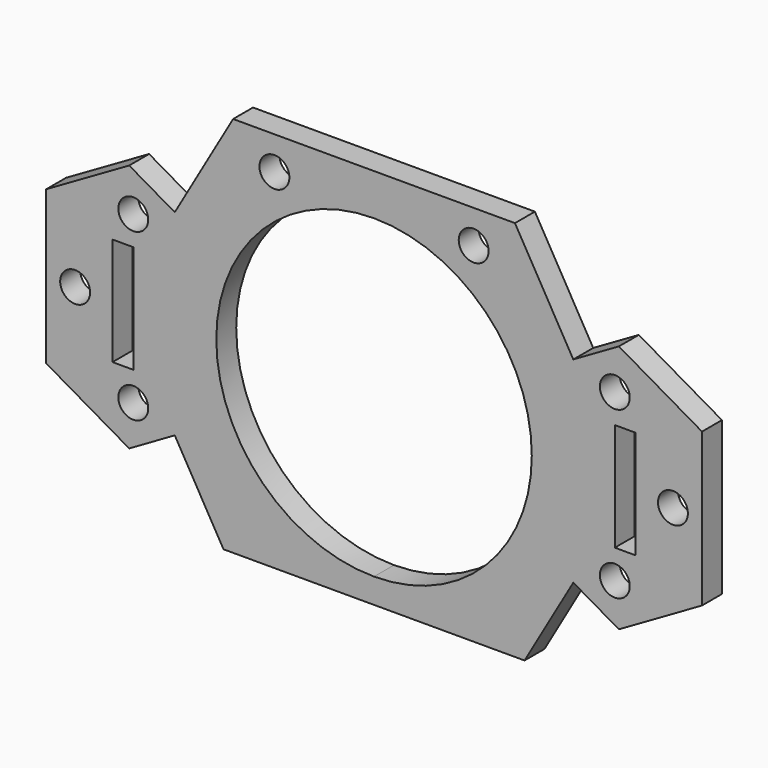
from build123d import *

# Parameters (mm, degrees)
SKETCH141_R  = 1.8
SKETCH141_W  = 2.5
SKETCH141_H  = 13
PAD112_DEPTH = 3


with BuildPart() as motorcageendcap:
    # Sketch141 → Pad112 (new body)
    with BuildSketch(Plane.XZ.offset(-90)):
        with BuildLine():
            Line((-29.490381, 15), (-39.5, 9.220944))
            Line((-39.5, 9.220944), (-39.5, -9.220944))
            Line((-39.5, -9.220944), (-29.490381, -15))
            Line((-24, -11.830127), (-29.490381, -15))
            Line((-24, -11.830127), (-18.128421, -22))
            Line((-18.128421, -22), (0, -22))
            Line((0, -22), (0, -19))
            ThreePointArc((0, 19), (-19, 0), (0, -19))
            Line((0, 24), (0, 19))
            Line((-16.973721, 24), (0, 24))
            Line((-24, 11.830127), (-16.973721, 24))
            Line((-29.490381, 15), (-24, 11.830127))
        make_face()
        with Locations((-29, 10)):
            Circle(SKETCH141_R, mode=Mode.SUBTRACT)
        with Locations((-29, -10)):
            Circle(SKETCH141_R, mode=Mode.SUBTRACT)
        with Locations((-12, 20)):
            Circle(SKETCH141_R, mode=Mode.SUBTRACT)
        with Locations((-36, 0)):
            Circle(SKETCH141_R, mode=Mode.SUBTRACT)
        with Locations((-30.25, 0)):
            Rectangle(SKETCH141_W, SKETCH141_H, mode=Mode.SUBTRACT)
    extrude(amount=-PAD112_DEPTH)


with BuildPart() as fusion004020018:
    # Part__Mirroring007: instance of MotorCageEndCap
    add(motorcageendcap.part.mirror(Plane(origin=(0, 0, 0), x_dir=(0, -1, 0), z_dir=(1, 0, 0))))

    # Fusion004020018: union MotorCageEndCap
    add(motorcageendcap.part)


solid = fusion004020018.part
